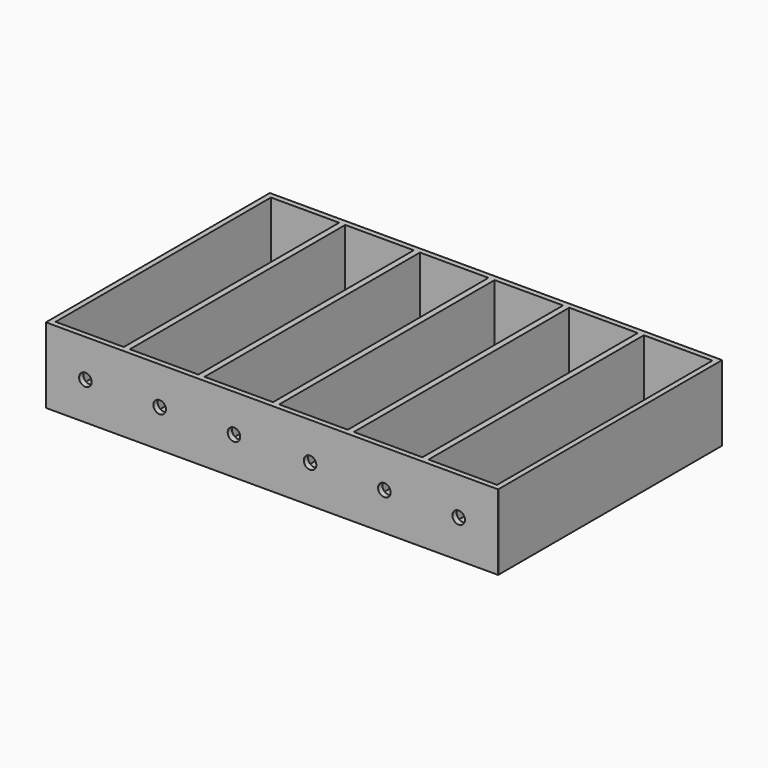
from build123d import *

# Parameters (mm, degrees)
F0_W     = 126
F0_H     = 78
F1_DEPTH = 2
F2_W     = 126
F2_H     = 78
F2_W_2   = 1.7
F2_H_2   = 75
F3_DEPTH = 19
F5_DEPTH = 100
F6_R     = 0.1


with BuildPart() as f1:
    # F0 (on Top) → F1 (new body)
    with BuildSketch(Plane.XY):
        Rectangle(F0_W, F0_H)
    extrude(amount=F1_DEPTH)

    # F2 (on face) → F3 (join)
    with BuildSketch(Plane.XY.offset(2)):
        Rectangle(F2_W, F2_H)
        Polygon((42.4, 37.5), (61.5, 37.5), (61.5, -37.5), (42.4, -37.5), (40.7, -37.5), (21.6, -37.5), (19.9, -37.5), (0.8, -37.5), (-0.9, -37.5), (-20, -37.5), (-21.7, -37.5), (-40.8, -37.5), (-42.5, -37.5), (-61.5, -37.5), (-61.5, 37.5), (-42.5, 37.5), (-40.8, 37.5), (-21.7, 37.5), (-20, 37.5), (-0.9, 37.5), (0.8, 37.5), (19.9, 37.5), (21.6, 37.5), (40.7, 37.5), align=None, mode=Mode.SUBTRACT)
        with Locations((-41.65, 0)):
            Rectangle(F2_W_2, F2_H_2)
        with Locations((-20.85, 0)):
            Rectangle(F2_W_2, F2_H_2)
        with Locations((-0.05, 0)):
            Rectangle(F2_W_2, F2_H_2)
        with Locations((20.75, 0)):
            Rectangle(F2_W_2, F2_H_2)
        with Locations((41.55, 0)):
            Rectangle(F2_W_2, F2_H_2)
    extrude(amount=F3_DEPTH)

    # F4 (on face) → F5 (cut)
    with BuildSketch(Plane.XZ.offset(39)):
        with BuildLine():
            ThreePointArc((-50.25, 10.5), (-52, 12.25), (-53.75, 10.5))
            Line((-53.75, 10.5), (-50.25, 10.5))
        make_face()
        with BuildLine():
            ThreePointArc((53.75, 10.5), (52, 12.25), (50.25, 10.5))
            Line((50.25, 10.5), (53.75, 10.5))
        make_face()
        with BuildLine():
            Line((53.75, 10.5), (50.25, 10.5))
            ThreePointArc((50.25, 10.5), (52, 8.75), (53.75, 10.5))
        make_face()
        with BuildLine():
            ThreePointArc((33.05, 10.5), (31.3, 12.25), (29.55, 10.5))
            Line((29.55, 10.5), (33.05, 10.5))
        make_face()
        with BuildLine():
            Line((33.05, 10.5), (29.55, 10.5))
            ThreePointArc((29.55, 10.5), (31.3, 8.75), (33.05, 10.5))
        make_face()
        with BuildLine():
            ThreePointArc((12.35, 10.5), (10.6, 12.25), (8.85, 10.5))
            Line((8.85, 10.5), (12.35, 10.5))
        make_face()
        with BuildLine():
            Line((12.35, 10.5), (8.85, 10.5))
            ThreePointArc((8.85, 10.5), (10.6, 8.75), (12.35, 10.5))
        make_face()
        with BuildLine():
            ThreePointArc((-8.85, 10.5), (-10.6, 12.25), (-12.35, 10.5))
            Line((-12.35, 10.5), (-8.85, 10.5))
        make_face()
        with BuildLine():
            Line((-8.85, 10.5), (-12.35, 10.5))
            ThreePointArc((-12.35, 10.5), (-10.6, 8.75), (-8.85, 10.5))
        make_face()
        with BuildLine():
            ThreePointArc((-29.55, 10.5), (-31.3, 12.25), (-33.05, 10.5))
            Line((-33.05, 10.5), (-29.55, 10.5))
        make_face()
        with BuildLine():
            Line((-29.55, 10.5), (-33.05, 10.5))
            ThreePointArc((-33.05, 10.5), (-31.3, 8.75), (-29.55, 10.5))
        make_face()
        with BuildLine():
            Line((-50.25, 10.5), (-53.75, 10.5))
            ThreePointArc((-53.75, 10.5), (-52, 8.75), (-50.25, 10.5))
        make_face()
    extrude(amount=-F5_DEPTH, mode=Mode.SUBTRACT)

    # F6
    f6_edges = [f1.edges().sort_by_distance(p)[0] for p in [
        (-63, -39, 10.5),
        (63, -39, 10.5),
        (63, 39, 10.5),
        (-63, 39, 10.5),
    ]]
    fillet(f6_edges, radius=F6_R)


solid = f1.part
